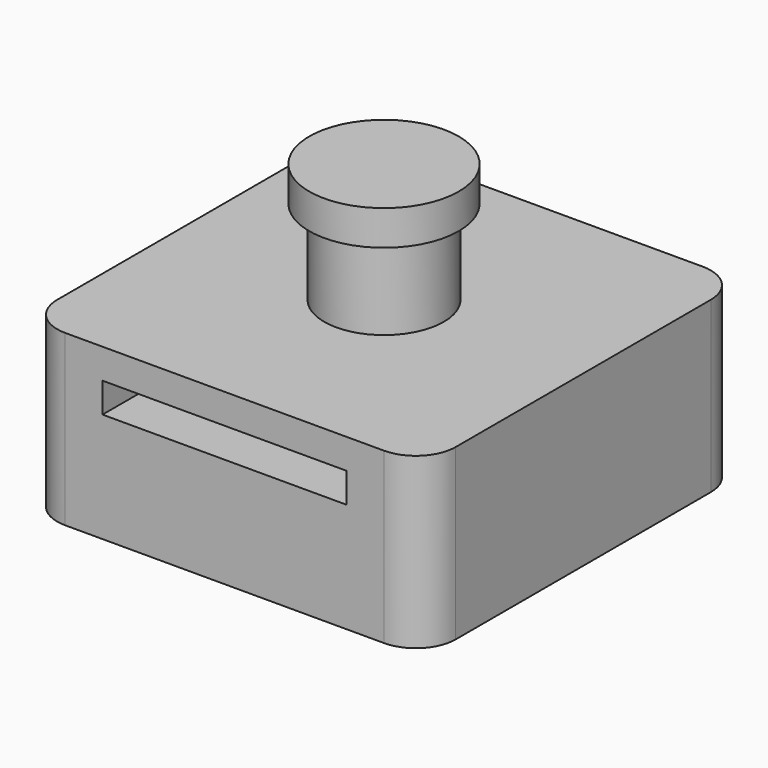
from build123d import *

# Parameters (mm, degrees)
F0_W     = 40
F0_H     = 40
F1_DEPTH = 17
F2_R     = 6
F3_DEPTH = 8.5
F4_R     = 7.5
F5_DEPTH = 3.5
F6_R     = 4
F7_W     = 24.5
F7_H     = 3
F8_DEPTH = 7


with BuildPart() as f1:
    # F0 (on Top) → F1 (new body)
    with BuildSketch(Plane.XY):
        Rectangle(F0_W, F0_H)
    extrude(amount=-F1_DEPTH)

    # F2 (on face) → F3 (join)
    with BuildSketch(Plane.XY):
        Circle(F2_R)
    extrude(amount=F3_DEPTH)

    # F4 (on face) → F5 (join)
    with BuildSketch(Plane.XY.offset(8.5)):
        Circle(F4_R)
    extrude(amount=F5_DEPTH)

    # F6
    f6_edges = [f1.edges().sort_by_distance(p)[0] for p in [
        (20, -20, -8.5),
        (20, 20, -8.5),
        (-20, 20, -8.5),
        (-20, -20, -8.5),
    ]]
    fillet(f6_edges, radius=F6_R)

    # F7 (on face) → F8 (cut)
    with BuildSketch(Plane.XZ.offset(20)):
        with Locations((0, -4.5)):
            Rectangle(F7_W, F7_H)
    extrude(amount=-F8_DEPTH, mode=Mode.SUBTRACT)


solid = f1.part
